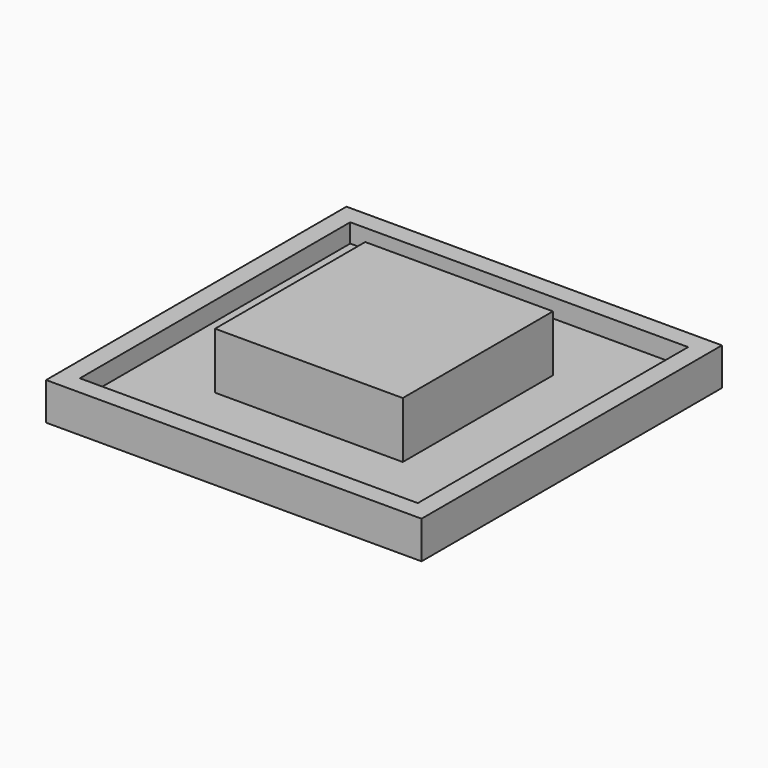
from build123d import *

# Parameters (mm, degrees)
F0_W      = 127
F0_H      = 127
F1_DEPTH  = 12.7
F2_W      = 114.3
F2_H      = 114.3
F2_W_2    = 63.5
F2_H_2    = 63.5
F3_DEPTH  = 6.35
F3_FACE_W = 63.5
F3_FACE_H = 63.5
F4_DEPTH  = 12.7


with BuildPart() as f1:
    # F0 (on Top) → F1 (new body)
    with BuildSketch(Plane.XY):
        Rectangle(F0_W, F0_H)
    extrude(amount=F1_DEPTH)

    # F2 (on face) → F3 (cut)
    with BuildSketch(Plane.XY.offset(12.7)):
        Rectangle(F2_W, F2_H)
        Rectangle(F2_W_2, F2_H_2, mode=Mode.SUBTRACT)
    extrude(amount=-F3_DEPTH, mode=Mode.SUBTRACT)

    # F3_face (on face) → F4 (join)
    with BuildSketch(Plane.XY.offset(12.7)):
        Rectangle(F3_FACE_W, F3_FACE_H)
    extrude(amount=F4_DEPTH)


solid = f1.part
